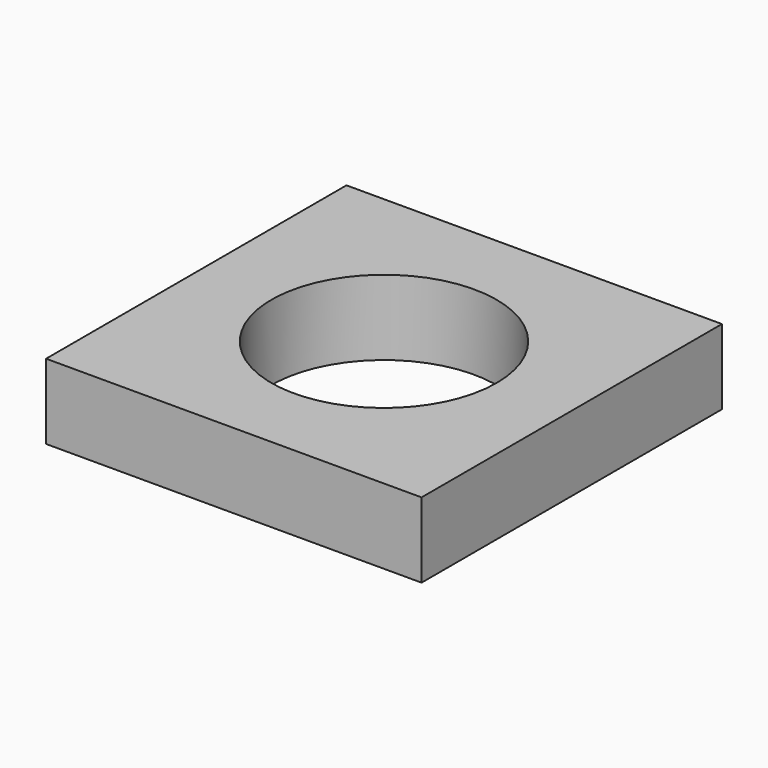
from build123d import *

# Parameters (mm, degrees)
CYLINDER_R     = 15
CYLINDER_DEPTH = 40
BOX_W          = 50
BOX_H          = 50
BOX_DEPTH      = 10


with BuildPart() as cylinder:
    # Cylinder → Cylinder (new body)
    with BuildSketch(Plane(origin=(25, 25, -12), x_dir=(1, 0, 0), z_dir=(0, 0, 1))):
        Circle(CYLINDER_R)
    extrude(amount=CYLINDER_DEPTH)


with BuildPart() as cut:
    # Box → Box (new body)
    with BuildSketch(Plane.XY):
        with Locations((25, 25)):
            Rectangle(BOX_W, BOX_H)
    extrude(amount=BOX_DEPTH)

    # Cut: cut Cylinder
    add(cylinder.part, mode=Mode.SUBTRACT)


solid = cut.part
